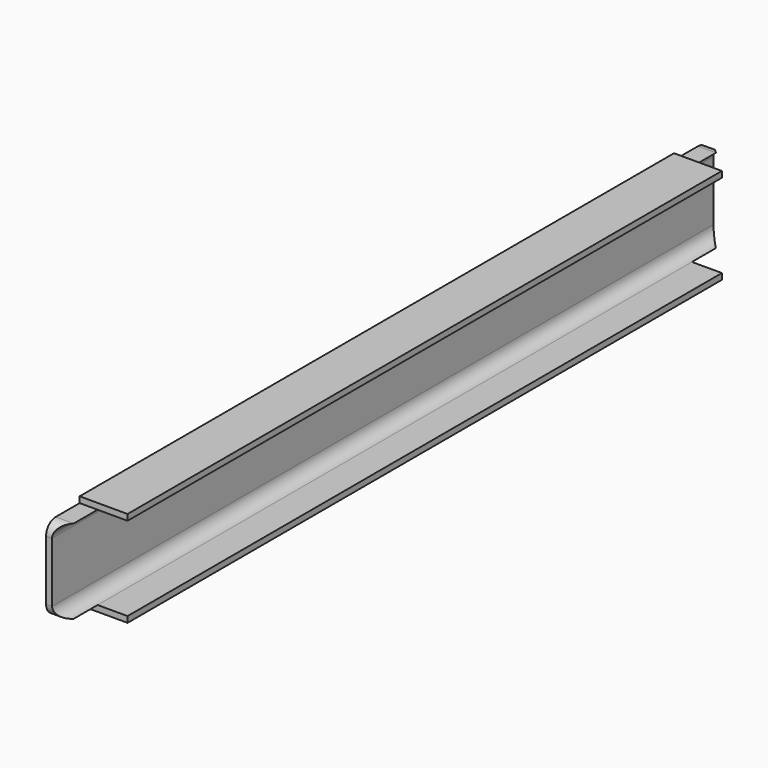
from build123d import *

# Parameters (mm, degrees)
F1_DEPTH = 444.5
F3_DEPTH = 25.401


with BuildPart() as f1:
    # F0 (on Front) → F1 (new body)
    with BuildSketch(Plane.XZ):
        with BuildLine():
            Line((0, 50.8), (0, 0))
            Line((0, 0), (25.4, 0))
            Line((25.4, 0), (25.4, 3.175))
            Line((25.4, 3.175), (9.525, 3.175))
            ThreePointArc((9.525, 3.175), (5.034872, 5.034872), (3.175, 9.525))
            Line((3.175, 9.525), (3.175, 41.275))
            ThreePointArc((3.175, 41.275), (5.034872, 45.765128), (9.525, 47.625))
            Line((9.525, 47.625), (25.4, 47.625))
            Line((25.4, 47.625), (25.4, 50.8))
            Line((25.4, 50.8), (0, 50.8))
        make_face()
    extrude(amount=F1_DEPTH)

    # F2 (on Right) → F3 (cut, through all)
    with BuildSketch(Plane.YZ):
        with BuildLine():
            Line((-25.4, 0), (0, 0))
            Line((0, 0), (0, 50.8))
            Line((0, 50.8), (-25.4, 50.8))
            Line((-25.4, 50.8), (-25.4, 47.625))
            Line((-25.4, 47.625), (-9.525, 47.625))
            ThreePointArc((-9.525, 47.625), (-5.034872, 45.765128), (-3.175, 41.275))
            Line((-3.175, 41.275), (-3.175, 9.525))
            ThreePointArc((-3.175, 9.525), (-5.034872, 5.034872), (-9.525, 3.175))
            Line((-9.525, 3.175), (-25.4, 3.175))
            Line((-25.4, 3.175), (-25.4, 0))
        make_face()
        with BuildLine():
            Line((-444.5, 50.8), (-444.5, 0))
            Line((-444.5, 0), (-419.1, 0))
            Line((-419.1, 0), (-419.1, 3.175))
            Line((-419.1, 3.175), (-434.975, 3.175))
            ThreePointArc((-434.975, 3.175), (-439.465128, 5.034872), (-441.325, 9.525))
            Line((-441.325, 9.525), (-441.325, 41.275))
            ThreePointArc((-441.325, 41.275), (-439.465128, 45.765128), (-434.975, 47.625))
            Line((-434.975, 47.625), (-419.1, 47.625))
            Line((-419.1, 47.625), (-419.1, 50.8))
            Line((-419.1, 50.8), (-444.5, 50.8))
        make_face()
    extrude(amount=F3_DEPTH, mode=Mode.SUBTRACT)


solid = f1.part
